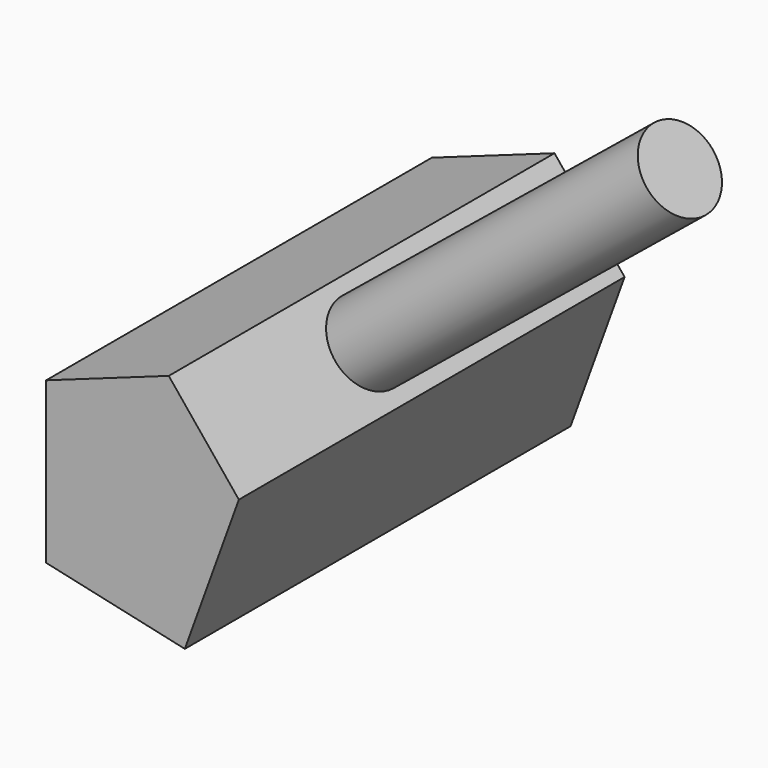
from build123d import *

# Parameters (mm, degrees)
F1_DEPTH = 152.4
F2_R     = 13.0640656829
F3_DEPTH = 127


with BuildPart() as f1:
    # F0 (on Front) → F1 (new body)
    with BuildSketch(Plane.XZ):
        Polygon((-28.6189503968, 23.3106035739), (-28.6189503968, -27.4649616331), (15.2326729149, -37.1584780514), (32.3117263615, 9.9243177101), (10.1551180705, 37.158485502), align=None)
    extrude(amount=F1_DEPTH)

    # F2 (on face) → F3 (join)
    with BuildSketch(Plane(origin=(24.3012615032, 0, 19.77051534), x_dir=(0, 1, 0), z_dir=(0.7757117177, 0, 0.6310874195))):
        with Locations((-87.2783064842, 5.0919940695)):
            Circle(F2_R)
    extrude(amount=F3_DEPTH)


solid = f1.part
